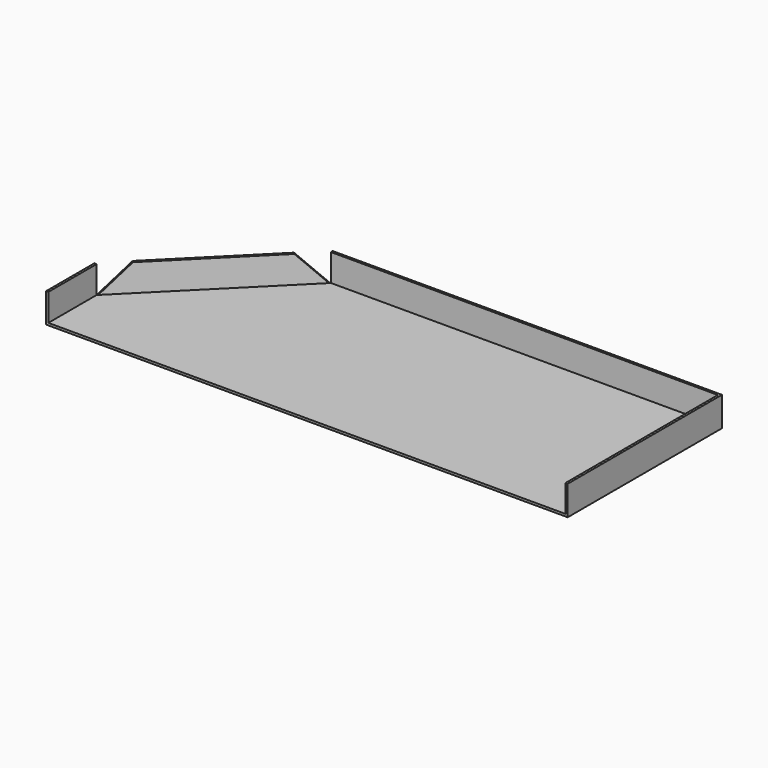
from build123d import *

# Parameters (mm, degrees)
F1_DEPTH = 1
F3_DEPTH = 12
F5_DEPTH = 1


with BuildPart() as f1:
    # F0 (on Top) → F1 (new body)
    with BuildSketch(Plane.XY):
        Polygon((-115, -42.5), (115, -42.5), (115, 42.5), (-57, 42.5), (-115, -15.5), align=None)
    extrude(amount=F1_DEPTH)

    # F2 (on face) → F3 (join)
    with BuildSketch(Plane.XY.offset(1)):
        Polygon((-115, -15.5), (-115, -42.5), (-114, -42.5), (-114, -15.9142135624), (-56.5857864376, 41.5), (114, 41.5), (114, -42.5), (115, -42.5), (115, 42.5), (-57, 42.5), align=None)
    extrude(amount=F3_DEPTH)

    # F4 (on face) → F5 (cut)
    with BuildSketch(Plane(origin=(-49.75, 49.75, 0), x_dir=(-0.7071067812, -0.7071067812, 0), z_dir=(-0.7071067812, 0.7071067812, 0))):
        Polygon((92.2674349448, 0), (92.2774349448, 0), (92.2774349448, 13), (79.2674349448, 13), align=None)
        Polygon((23.3530483272, 13), (10.2530483272, 13), (10.2530483272, 0), (10.3530483272, 0), align=None)
    extrude(amount=-F5_DEPTH, mode=Mode.SUBTRACT)


solid = f1.part
